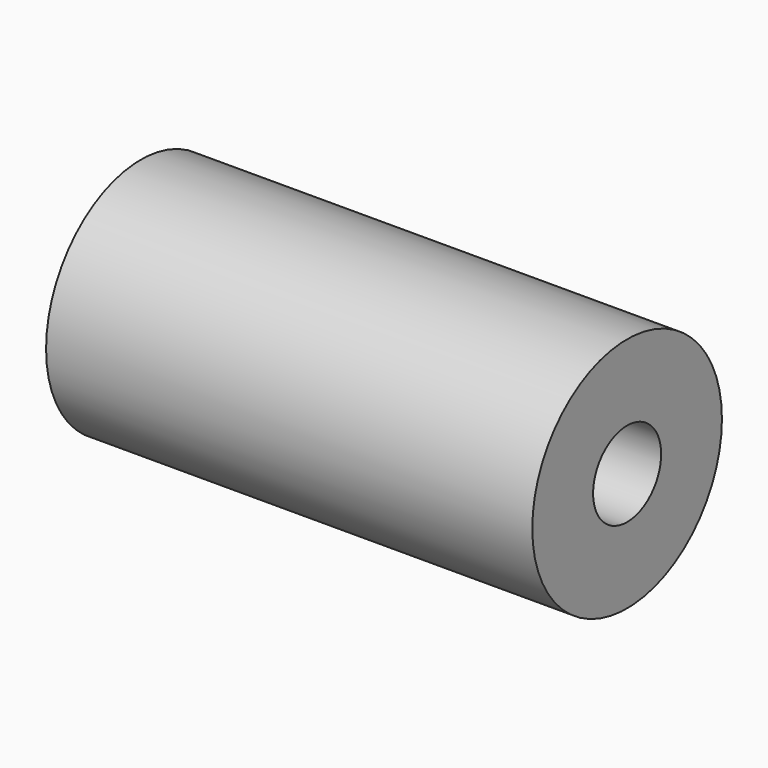
from build123d import *

# Parameters (mm, degrees)
F0_R     = 30.95625
F1_DEPTH = 63.5
F3_D     = 22.225
F3_DEPTH = 127


with BuildPart() as f1:
    # F0 (on Right) → F1 (new body, symmetric)
    with BuildSketch(Plane.YZ):
        Circle(F0_R)
    extrude(amount=F1_DEPTH, both=True)

    # F3
    with Locations(Plane.YZ.offset(63.5)):
        with Locations((0, 0)):
            Hole(F3_D / 2, depth=F3_DEPTH)


solid = f1.part
